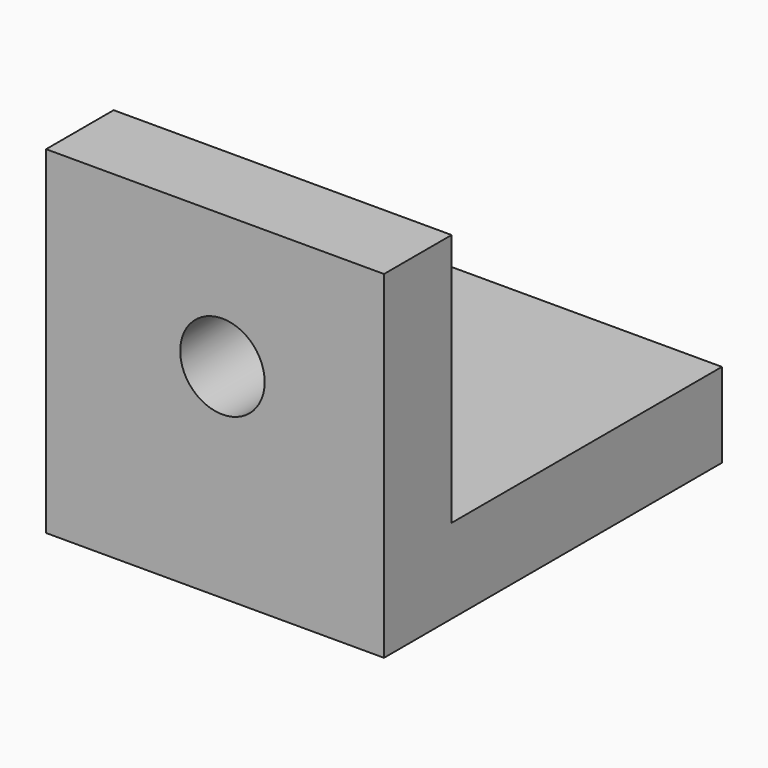
from build123d import *

# Parameters (mm, degrees)
F0_W     = 50.8
F0_H     = 50.8
F1_DEPTH = 12.7
F2_W     = 50.8
F2_H     = 50.8
F3_DEPTH = 12.7
F5_D     = 12.7


with BuildPart() as f1:
    # F0 (on Top) → F1 (new body)
    with BuildSketch(Plane.XY):
        with Locations((-1.111249, 9.47165)):
            Rectangle(F0_W, F0_H)
    extrude(amount=F1_DEPTH)

    # F2 (on face) → F3 (join)
    with BuildSketch(Plane.XZ.offset(15.92835)):
        with Locations((-1.111249, 25.4)):
            Rectangle(F2_W, F2_H)
    extrude(amount=F3_DEPTH)

    # F5 (through all)
    with Locations(Plane(origin=(0, -15.92835, 0), x_dir=(-1, 0, 0), z_dir=(0, 1, 0))):
        with Locations((0, 30.65712)):
            Hole(F5_D / 2)


solid = f1.part
